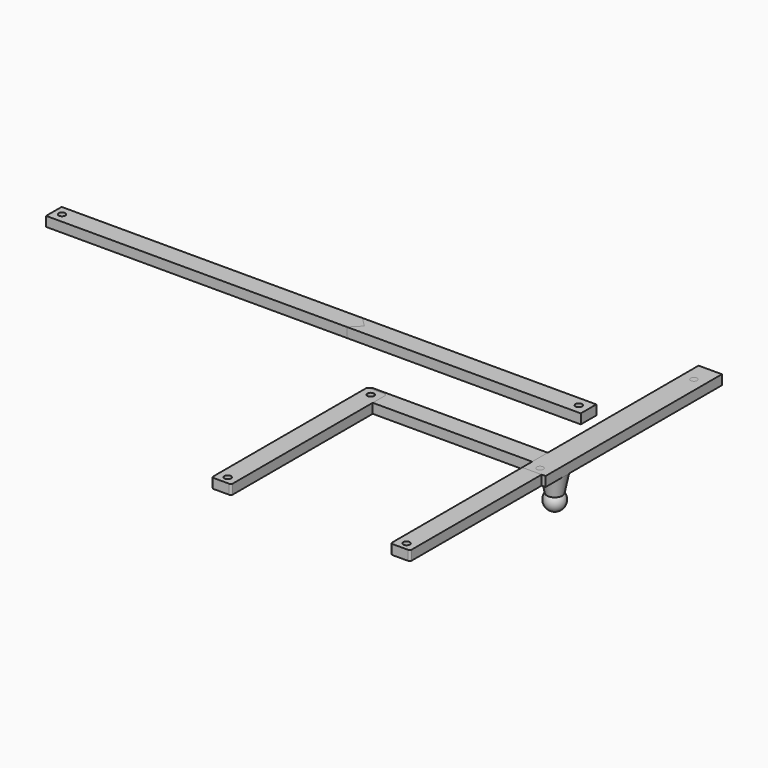
from build123d import *

# Parameters (mm, degrees)
CYLINDER001_R             = 1.7
CYLINDER001_DEPTH         = 10
CYLINDER_R                = 1.7
CYLINDER_DEPTH            = 10
BOX_W                     = 100
BOX_H                     = 10
BOX_DEPTH                 = 5
FILLET_R                  = 1
FILLET001_R               = 1
FILLET002_R               = 1
FILLET003_R               = 1
FILLET005_R               = 1
FILLET004_R               = 1
FILLET004_PLACEMENT_ANGLE = -90
FILLET007_R               = 1
FILLET006_R               = 1
FILLET006_PLACEMENT_ANGLE = 90
BOX001_W                  = 10
BOX001_H                  = 10
BOX001_DEPTH              = 10
CYLINDER002_R             = 2.7
CYLINDER002_DEPTH         = 10
FILLET009_R               = 1
FILLET008_R               = 1
FILLET008_PLACEMENT_ANGLE = 90
FILLET011_R               = 1
FILLET010_R               = 1
FILLET010_PLACEMENT_ANGLE = -90
CYLINDER004_R             = 1.7
CYLINDER004_DEPTH         = 10
BOX003_W                  = 400
BOX003_H                  = 400
BOX003_DEPTH              = 10
BOX003_PLACEMENT_ANGLE    = -45
BOX004_W                  = 275
BOX004_H                  = 10
BOX004_DEPTH              = 5
CYLINDER003_R             = 1.7
CYLINDER003_DEPTH         = 10
BOX005_W                  = 400
BOX005_H                  = 400
BOX005_DEPTH              = 10
BOX005_PLACEMENT_ANGLE    = -45
BOX002_W                  = 275
BOX002_H                  = 10
BOX002_DEPTH              = 5
BOX008_W                  = 12
BOX008_H                  = 10
BOX008_DEPTH              = 5
CYLINDER006_R             = 1.7
CYLINDER006_DEPTH         = 10
BOX007_W                  = 10
BOX007_H                  = 10
BOX007_DEPTH              = 10
CYLINDER005_R             = 2.7
CYLINDER005_DEPTH         = 10
BOX006_W                  = 12
BOX006_H                  = 113.4
BOX006_DEPTH              = 5
CYLINDER007_R             = 1.7
CYLINDER007_DEPTH         = 10


with BuildPart() as cylinder001:
    # Cylinder001 → Cylinder001 (new body)
    with BuildSketch(Plane(origin=(96, 5, -2), x_dir=(1, 0, 0), z_dir=(0, 0, 1))):
        Circle(CYLINDER001_R)
    extrude(amount=CYLINDER001_DEPTH)


with BuildPart() as cylinder:
    # Cylinder → Cylinder (new body)
    with BuildSketch(Plane(origin=(4, 5, -1), x_dir=(1, 0, 0), z_dir=(0, 0, 1))):
        Circle(CYLINDER_R)
    extrude(amount=CYLINDER_DEPTH)


with BuildPart() as fillet001:
    # Box → Box (new body)
    with BuildSketch(Plane.XY):
        with Locations((50, 5)):
            Rectangle(BOX_W, BOX_H)
    extrude(amount=BOX_DEPTH)

    # Cut: cut Cylinder
    add(cylinder.part, mode=Mode.SUBTRACT)

    # Cut001: cut Cylinder001
    add(cylinder001.part, mode=Mode.SUBTRACT)

    # Fillet
    fillet_edges = [fillet001.edges().sort_by_distance(p)[0] for p in [
        (100, 10, 2.5),
    ]]
    fillet(fillet_edges, radius=FILLET_R)

    # Fillet001
    fillet001_edges = [fillet001.edges().sort_by_distance(p)[0] for p in [
        (100, 0, 2.5),
    ]]
    fillet(fillet001_edges, radius=FILLET001_R)


with BuildPart() as fillet003:
    # Fillet002 base: copy of Fillet001
    add(fillet001.part)

    # Fillet002
    fillet002_edges = [fillet003.edges().sort_by_distance(p)[0] for p in [
        (0, 0, 2.5),
    ]]
    fillet(fillet002_edges, radius=FILLET002_R)

    # Fillet003
    fillet003_edges = [fillet003.edges().sort_by_distance(p)[0] for p in [
        (0, 10, 2.5),
    ]]
    fillet(fillet003_edges, radius=FILLET003_R)


with BuildPart() as fillet004:
    # Fillet005 base: copy of Fillet001
    add(fillet001.part)

    # Fillet005
    fillet005_edges = [fillet004.edges().sort_by_distance(p)[0] for p in [
        (0, 0, 2.5),
    ]]
    fillet(fillet005_edges, radius=FILLET005_R)

    # Fillet004
    fillet004_edges = [fillet004.edges().sort_by_distance(p)[0] for p in [
        (0, 10, 2.5),
    ]]
    fillet(fillet004_edges, radius=FILLET004_R)


with BuildPart() as fillet004_1:
    # Fillet004 placement: moved
    add(fillet004.part.moved(Location((-1, 9, 0))).rotate(Axis((-1, 9, 0), (0, 0, 1)), FILLET004_PLACEMENT_ANGLE))


with BuildPart() as fillet006:
    # Fillet007 base: copy of Fillet001
    add(fillet001.part)

    # Fillet007
    fillet007_edges = [fillet006.edges().sort_by_distance(p)[0] for p in [
        (0, 0, 2.5),
    ]]
    fillet(fillet007_edges, radius=FILLET007_R)

    # Fillet006
    fillet006_edges = [fillet006.edges().sort_by_distance(p)[0] for p in [
        (0, 10, 2.5),
    ]]
    fillet(fillet006_edges, radius=FILLET006_R)


with BuildPart() as fillet006_1:
    # Fillet006 placement: moved
    add(fillet006.part.moved(Location((101, -91, 0))).rotate(Axis((101, -91, 0), (0, 0, 1)), FILLET006_PLACEMENT_ANGLE))


with BuildPart() as cube001:
    # Box001 → Box001 (new body)
    with BuildSketch(Plane(origin=(90.8, 99, -3), x_dir=(1, 0, 0), z_dir=(0, 0, 1))):
        with Locations((5, 5)):
            Rectangle(BOX001_W, BOX001_H)
    extrude(amount=BOX001_DEPTH)


with BuildPart() as cut002:
    # Cylinder002 → Cylinder002 (new body)
    with BuildSketch(Plane(origin=(96, 97, -3), x_dir=(1, 0, 0), z_dir=(0, 0, 1))):
        Circle(CYLINDER002_R)
    extrude(amount=CYLINDER002_DEPTH)

    # Cut002: cut Cube001
    add(cube001.part, mode=Mode.SUBTRACT)


with BuildPart() as cut003:
    # Fillet009 base: copy of Fillet001
    add(fillet001.part)

    # Fillet009
    fillet009_edges = [cut003.edges().sort_by_distance(p)[0] for p in [
        (0, 0, 2.5),
    ]]
    fillet(fillet009_edges, radius=FILLET009_R)

    # Fillet008
    fillet008_edges = [cut003.edges().sort_by_distance(p)[0] for p in [
        (0, 10, 2.5),
    ]]
    fillet(fillet008_edges, radius=FILLET008_R)


with BuildPart() as cut003_1:
    # Fillet008 placement: moved
    add(cut003.part.moved(Location((101, 1, 0))).rotate(Axis((101, 1, 0), (0, 0, 1)), FILLET008_PLACEMENT_ANGLE))

    # Cut003: cut Cut002
    add(cut002.part, mode=Mode.SUBTRACT)


with BuildPart() as fillet010:
    # Fillet011 base: copy of Fillet001
    add(fillet001.part)

    # Fillet011
    fillet011_edges = [fillet010.edges().sort_by_distance(p)[0] for p in [
        (0, 0, 2.5),
    ]]
    fillet(fillet011_edges, radius=FILLET011_R)

    # Fillet010
    fillet010_edges = [fillet010.edges().sort_by_distance(p)[0] for p in [
        (0, 10, 2.5),
    ]]
    fillet(fillet010_edges, radius=FILLET010_R)


with BuildPart() as fillet010_1:
    # Fillet010 placement: moved
    add(fillet010.part.moved(Location((-1, 9, 0))).rotate(Axis((-1, 9, 0), (0, 0, 1)), FILLET010_PLACEMENT_ANGLE))


with BuildPart() as cylinder004:
    # Cylinder004 → Cylinder004 (new body)
    with BuildSketch(Plane(origin=(75, 50, -2), x_dir=(1, 0, 0), z_dir=(0, 0, 1))):
        Circle(CYLINDER004_R)
    extrude(amount=CYLINDER004_DEPTH)


with BuildPart() as cube003:
    # Box003 → Box003 (new body)
    with BuildSketch(Plane.XY):
        with Locations((200, 200)):
            Rectangle(BOX003_W, BOX003_H)
    extrude(amount=BOX003_DEPTH)


with BuildPart() as cube003_1:
    # Box003 placement: moved
    add(cube003.part.moved(Location((-601, 50, -3))).rotate(Axis((-601, 50, -3), (0, 0, 1)), BOX003_PLACEMENT_ANGLE))


with BuildPart() as long_arm_part_a:
    # Box004 → Box004 (new body)
    with BuildSketch(Plane(origin=(-195, 45, 0), x_dir=(1, 0, 0), z_dir=(0, 0, 1))):
        with Locations((137.5, 5)):
            Rectangle(BOX004_W, BOX004_H)
    extrude(amount=BOX004_DEPTH)

    # Cut004: cut Cube003
    add(cube003_1.part, mode=Mode.SUBTRACT)

    # Cut005: cut Cylinder004
    add(cylinder004.part, mode=Mode.SUBTRACT)


with BuildPart() as cylinder003:
    # Cylinder003 → Cylinder003 (new body)
    with BuildSketch(Plane(origin=(-190.8, 50, -2), x_dir=(1, 0, 0), z_dir=(0, 0, 1))):
        Circle(CYLINDER003_R)
    extrude(amount=CYLINDER003_DEPTH)


with BuildPart() as cube005:
    # Box005 → Box005 (new body)
    with BuildSketch(Plane.XY):
        with Locations((200, 200)):
            Rectangle(BOX005_W, BOX005_H)
    extrude(amount=BOX005_DEPTH)


with BuildPart() as cube005_1:
    # Box005 placement: moved
    add(cube005.part.moved(Location((-601, 50, -3))).rotate(Axis((-601, 50, -3), (0, 0, 1)), BOX005_PLACEMENT_ANGLE))


with BuildPart() as long_arm_part_b:
    # Box002 → Box002 (new body)
    with BuildSketch(Plane(origin=(-195, 45, 0), x_dir=(1, 0, 0), z_dir=(0, 0, 1))):
        with Locations((137.5, 5)):
            Rectangle(BOX002_W, BOX002_H)
    extrude(amount=BOX002_DEPTH)

    # Common: intersect Cube005
    add(cube005_1.part, mode=Mode.INTERSECT)

    # Cut006: cut Cylinder003
    add(cylinder003.part, mode=Mode.SUBTRACT)


with BuildPart() as cube008:
    # Box008 → Box008 (new body)
    with BuildSketch(Plane(origin=(91, 92, 0), x_dir=(1, 0, 0), z_dir=(0, 0, 1))):
        with Locations((6, 5)):
            Rectangle(BOX008_W, BOX008_H)
    extrude(amount=BOX008_DEPTH)


with BuildPart() as cone:
    # Cone → Cone (revolve)
    with BuildSketch(Plane(origin=(97, 7, -10), x_dir=(1, 0, 0), z_dir=(0, -1, 0))):
        Polygon((0, 0), (4, 0), (6, 10), (0, 10), align=None)
    revolve(axis=Axis((97, 7, -10), (0, 0, 1)))


with BuildPart() as cylinder006:
    # Cylinder006 → Cylinder006 (new body)
    with BuildSketch(Plane(origin=(97, -2.4, -1), x_dir=(1, 0, 0), z_dir=(0, 0, 1))):
        Circle(CYLINDER006_R)
    extrude(amount=CYLINDER006_DEPTH)


with BuildPart() as cube007:
    # Box007 → Box007 (new body)
    with BuildSketch(Plane(origin=(91.8, 99, -3), x_dir=(1, 0, 0), z_dir=(0, 0, 1))):
        with Locations((5, 5)):
            Rectangle(BOX007_W, BOX007_H)
    extrude(amount=BOX007_DEPTH)


with BuildPart() as cut007:
    # Cylinder005 → Cylinder005 (new body)
    with BuildSketch(Plane(origin=(97, 97, -3), x_dir=(1, 0, 0), z_dir=(0, 0, 1))):
        Circle(CYLINDER005_R)
    extrude(amount=CYLINDER005_DEPTH)

    # Cut007: cut Cube007
    add(cube007.part, mode=Mode.SUBTRACT)


with BuildPart() as cut007_1:
    # Cut007 placement: moved
    add(cut007.part.moved(Location((0, 2, 0))))


with BuildPart() as fusion:
    # Box006 → Box006 (new body)
    with BuildSketch(Plane(origin=(91, -5, 0), x_dir=(1, 0, 0), z_dir=(0, 0, 1))):
        with Locations((6, 56.7)):
            Rectangle(BOX006_W, BOX006_H)
    extrude(amount=BOX006_DEPTH)

    # Cut008: cut Cut007
    add(cut007_1.part, mode=Mode.SUBTRACT)


with BuildPart() as fusion_1:
    # Cut008 placement: moved
    add(fusion.part.moved(Location((0, -1.4, 0))))

    # Cut009: cut Cylinder006
    add(cylinder006.part, mode=Mode.SUBTRACT)

    # Fusion: union Cone
    add(cone.part)


with BuildPart() as fusion001:
    # Sphere → Sphere (revolve)
    with BuildSketch(Plane(origin=(97, 7, -13), x_dir=(1, 0, 0), z_dir=(0, -1, 0))):
        with BuildLine():
            ThreePointArc((0, -5), (5, 0), (0, 5))
            Line((0, 5), (0, -5))
        make_face()
    revolve(axis=Axis((97, 7, -13), (0, 0, 1)))

    # Fusion001: union Fusion
    add(fusion_1.part)


with BuildPart() as fusion002:
    # Fusion002 base: copy of Fusion001
    add(fusion001.part)

    # Fusion002: union Cube008
    add(cube008.part)


with BuildPart() as cylinder007:
    # Cylinder007 → Cylinder007 (new body)
    with BuildSketch(Plane(origin=(97, 96.5, 0), x_dir=(1, 0, 0), z_dir=(0, 0, 1))):
        Circle(CYLINDER007_R)
    extrude(amount=CYLINDER007_DEPTH)


with BuildPart() as cut010:
    # Fusion003 base: copy of Fusion001
    add(fusion001.part)

    # Fusion003: union Cube008
    add(cube008.part)

    # Cut010: cut Cylinder007
    add(cylinder007.part, mode=Mode.SUBTRACT)


solid = Compound([fillet003.part, fillet004_1.part, fillet006_1.part, cut003_1.part, fillet010_1.part, long_arm_part_a.part, long_arm_part_b.part, fusion002.part, cut010.part])
